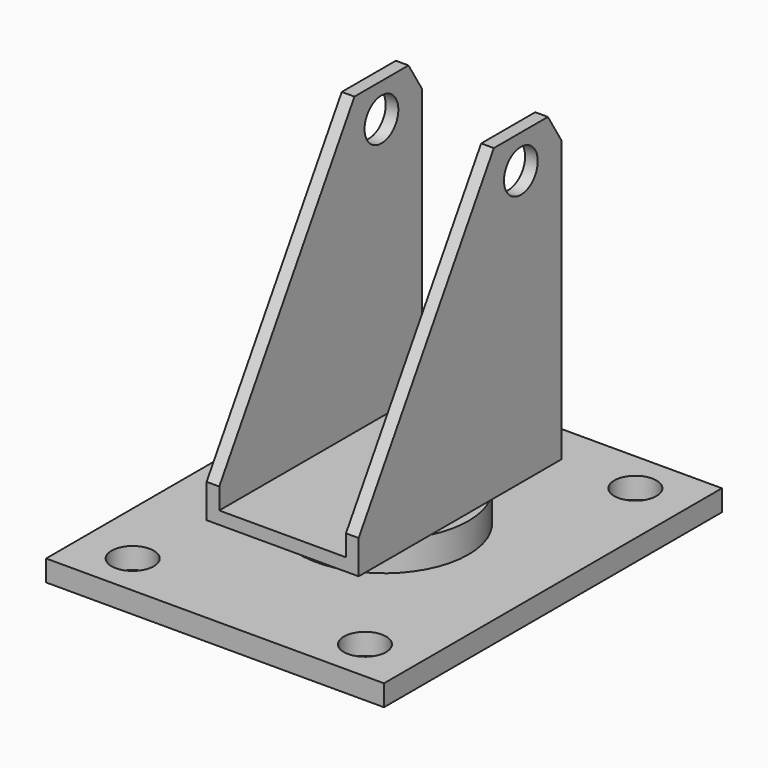
from build123d import *

# Parameters (mm, degrees)
F0_W       = 80
F0_H       = 100
F0_R       = 5
F0_R_2     = 20
F1_DEPTH   = 5
F2_DEPTH   = 12
F4_DEPTH   = 3
F5_W       = 3
F5_H       = 60
F6_DEPTH   = 70
F7_SIZE2   = 40
F7_SIZE    = 65
F8_SIZE2   = 6.5
F8_SIZE    = 4
F8_2_SIZE2 = 6.5
F8_2_SIZE  = 4
F9_R       = 5
F10_DEPTH  = 60


with BuildPart() as f1:
    # F0 (on Top) → F1 (new body)
    with BuildSketch(Plane.XY):
        Rectangle(F0_W, F0_H)
        with Locations((-27.5, -40)):
            Circle(F0_R, mode=Mode.SUBTRACT)
        with Locations((27.5, -40)):
            Circle(F0_R, mode=Mode.SUBTRACT)
        with Locations((-27.5, 40)):
            Circle(F0_R, mode=Mode.SUBTRACT)
        Circle(F0_R_2, mode=Mode.SUBTRACT)
        with Locations((27.5, 40)):
            Circle(F0_R, mode=Mode.SUBTRACT)
        Circle(F0_R_2)
    extrude(amount=F1_DEPTH)

    # F0 (on Top) → F2 (join)
    with BuildSketch(Plane.XY):
        Circle(F0_R_2)
    extrude(amount=F2_DEPTH)

    # F3 (on face) → F4 (join)
    with BuildSketch(Plane.XY.offset(12)):
        with BuildLine():
            Line((-18, -30), (18, -30))
            Line((18, -30), (18, -8.7177978871))
            ThreePointArc((18, -8.7177978871), (0, -20), (-18, -8.7177978871))
            Line((-18, -8.7177978871), (-18, -30))
        make_face()
        with BuildLine():
            ThreePointArc((-18, -8.7177978871), (0, -20), (18, -8.7177978871))
            Line((18, -8.7177978871), (18, 8.7177978871))
            ThreePointArc((18, 8.7177978871), (0, 20), (-18, 8.7177978871))
            Line((-18, 8.7177978871), (-18, -8.7177978871))
        make_face()
        with BuildLine():
            ThreePointArc((-18, 8.7177978871), (0, 20), (18, 8.7177978871))
            Line((18, 8.7177978871), (18, 30))
            Line((18, 30), (-18, 30))
            Line((-18, 30), (-18, 8.7177978871))
        make_face()
    extrude(amount=F4_DEPTH)

    # F5 (on face) → F6 (join)
    with BuildSketch(Plane.XY.offset(15)):
        with Locations((-16.5, 0)):
            Rectangle(F5_W, F5_H)
        with Locations((16.5, 0)):
            Rectangle(F5_W, F5_H)
    extrude(amount=F6_DEPTH)

    # F7
    f7_edges = [f1.edges().sort_by_distance(p)[0] for p in [
        (16.5, -30, 85),
        (-16.5, -30, 85),
    ]]
    f7_side = f1.faces().sort_by_distance((-17.186059, -30, 48.5))[0]
    chamfer(f7_edges, length=F7_SIZE, length2=F7_SIZE2, reference=f7_side)

    # F8
    f8_edges = [f1.edges().sort_by_distance(p)[0] for p in [
        (16.5, 30, 85),
    ]]
    f8_side = f1.faces().sort_by_distance((16.5, 20, 85))[0]
    chamfer(f8_edges, length=F8_SIZE, length2=F8_SIZE2, reference=f8_side)

    # F8#2
    f8_2_edges = [f1.edges().sort_by_distance(p)[0] for p in [
        (-16.5, 30, 85),
    ]]
    f8_2_side = f1.faces().sort_by_distance((-16.5, 20, 85))[0]
    chamfer(f8_2_edges, length=F8_2_SIZE, length2=F8_2_SIZE2, reference=f8_2_side)

    # F9 (on face) → F10 (cut)
    with BuildSketch(Plane(origin=(-18, 0, 0), x_dir=(0, -1, 0), z_dir=(-1, 0, 0))):
        with Locations((-18, 77)):
            Circle(F9_R)
    extrude(amount=-F10_DEPTH, mode=Mode.SUBTRACT)


solid = f1.part
